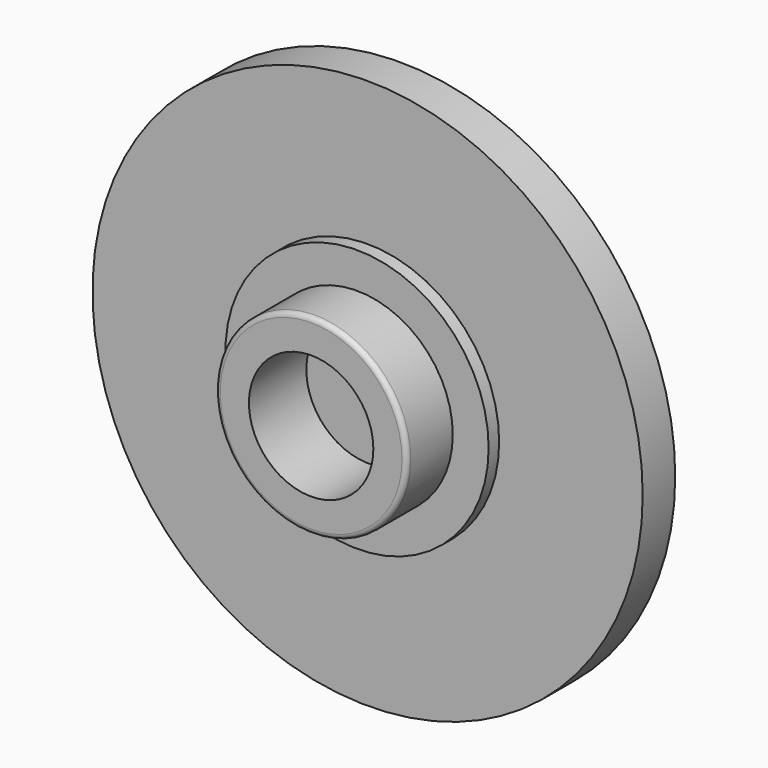
from build123d import *

# Parameters (mm, degrees)
F0_R     = 11.5
F1_DEPTH = 1.7
F2_R     = 5.5
F3_DEPTH = 2.25
F4_R     = 4
F5_DEPTH = 4.65
F6_R     = 0.2
F7_R     = 2.6
F8_DEPTH = 3


with BuildPart() as f1:
    # F0 (on Front) → F1 (new body)
    with BuildSketch(Plane.XZ):
        Circle(F0_R)
    extrude(amount=F1_DEPTH)

    # F2 (on Front) → F3 (join)
    with BuildSketch(Plane.XZ):
        Circle(F2_R)
    extrude(amount=F3_DEPTH)

    # F4 (on Front) → F5 (join)
    with BuildSketch(Plane.XZ):
        Circle(F4_R)
    extrude(amount=F5_DEPTH)

    # F6
    f6_edges = [f1.edges().sort_by_distance(p)[0] for p in [
        (-4, -4.65, 0),
    ]]
    fillet(f6_edges, radius=F6_R)

    # F7 (on face) → F8 (cut)
    with BuildSketch(Plane.XZ.offset(4.65)):
        Circle(F7_R)
    extrude(amount=-F8_DEPTH, mode=Mode.SUBTRACT)


solid = f1.part
